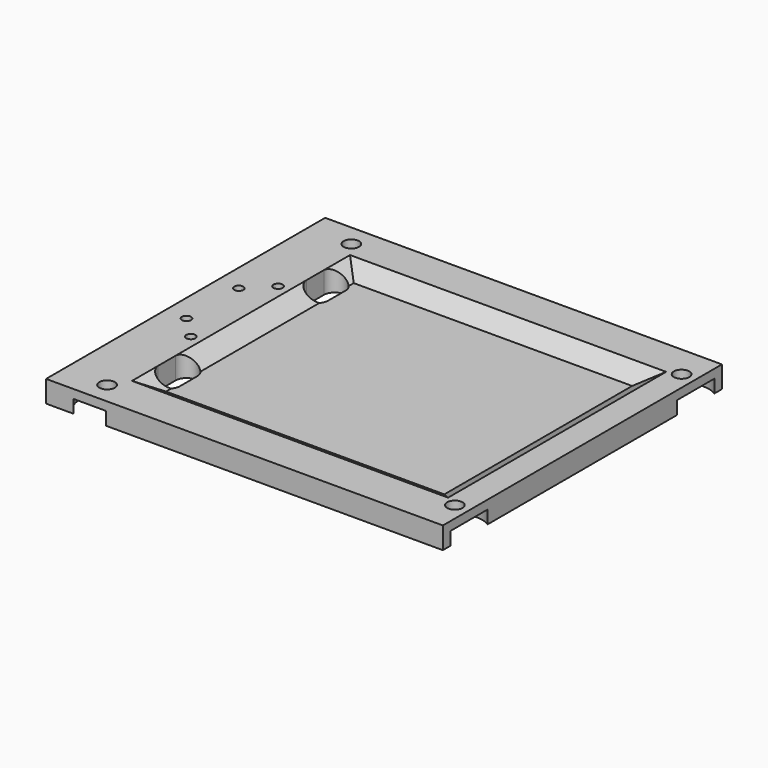
from build123d import *

# Parameters (mm, degrees)
SKETCH014_W         = 182
SKETCH014_H         = 160
PAD007_DEPTH        = 10
HOLE006_D           = 7.1
HOLE006_DEPTH       = 52
HOLE006_CBORE_D     = 25
HOLE006_CBORE_DEPTH = 16
POCKET002_DEPTH     = 29
SKETCH018_W         = 145
SKETCH018_H         = 125
POCKET003_DEPTH     = 5
POCKET003_TAPER     = 60
SKETCH019_R         = 2.1
HOLE007_DEPTH       = 25


with BuildPart() as part:
    # Sketch014 → Pad007 (new body)
    with BuildSketch(Plane.XY):
        with Locations((91, 82)):
            Rectangle(SKETCH014_W, SKETCH014_H)
    extrude(amount=-PAD007_DEPTH)

    # Hole006
    with Locations(Plane(origin=(0, 0, -20), x_dir=(1, 0, 0), z_dir=(0, 0, -1))):
        with Locations((20, -152), (20, -12), (175.5, -147), (175.5, -17)):
            CounterBoreHole(HOLE006_D / 2, HOLE006_CBORE_D / 2, HOLE006_CBORE_DEPTH, depth=HOLE006_DEPTH)

    # Sketch017 → Pocket002 (cut)
    with BuildSketch(Plane.XY):
        with BuildLine():
            ThreePointArc((35, 130), (30, 135), (25, 130))
            Line((25, 130), (25, 120))
            ThreePointArc((25, 120), (30, 115), (35, 120))
            Line((35, 130), (35, 120))
        make_face()
        with BuildLine():
            ThreePointArc((35, 45), (30, 50), (25, 45))
            Line((25, 45), (25, 35))
            ThreePointArc((25, 35), (30, 30), (35, 35))
            Line((35, 45), (35, 35))
        make_face()
    extrude(amount=-POCKET002_DEPTH, mode=Mode.SUBTRACT)

    # Sketch018 → Pocket003 (cut)
    with BuildSketch(Plane.XY):
        with Locations((97.5, 82.5)):
            Rectangle(SKETCH018_W, SKETCH018_H)
    extrude(amount=-POCKET003_DEPTH, taper=POCKET003_TAPER, mode=Mode.SUBTRACT)

    # Sketch019 → Hole007 (cut)
    with BuildSketch(Plane.XY.offset(-20)):
        with Locations((20, 60)):
            Circle(SKETCH019_R)
        with Locations((20, 110)):
            Circle(SKETCH019_R)
        with Locations((10, 100)):
            Circle(SKETCH019_R)
        with Locations((10, 70)):
            Circle(SKETCH019_R)
    extrude(amount=HOLE007_DEPTH, mode=Mode.SUBTRACT)


with BuildPart() as part_1:
    # Body005 placement: moved
    add(part.part.moved(Location((-80, -12, -116))))


solid = part_1.part
